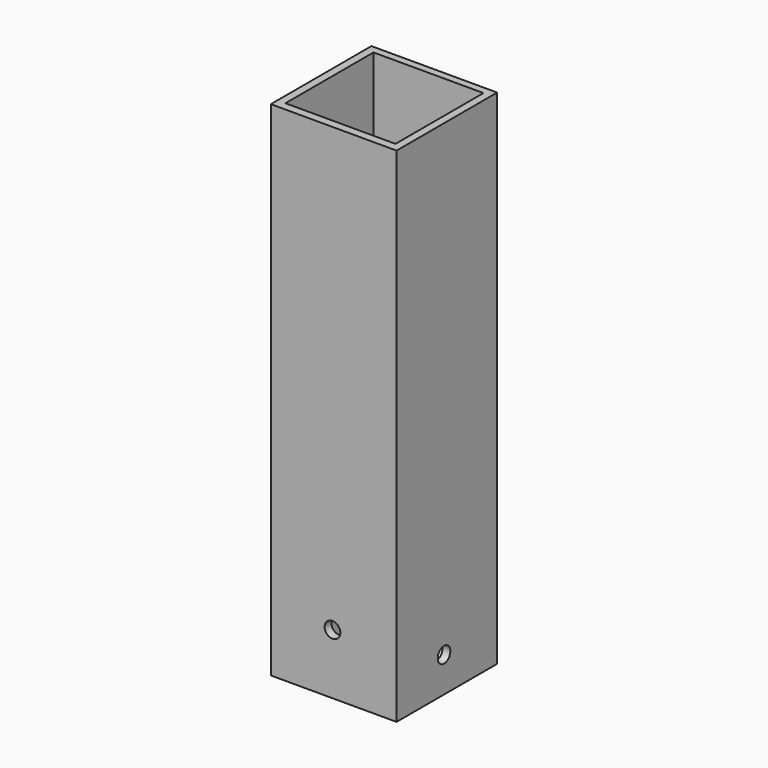
from build123d import *

# Parameters (mm, degrees)
F1_W     = 25.4
F1_H     = 25.4
F1_W_2   = 22.225
F1_H_2   = 22.225
F2_DEPTH = 101.6
F4_D     = 3.175
F6_D     = 3.175


with BuildPart() as f2:
    # F1 (on face) → F2 (new body)
    with BuildSketch(Plane.XY):
        with Locations((21.07109, -27.648601)):
            Rectangle(F1_W, F1_H)
        with Locations((21.086402, -27.549498)):
            Rectangle(F1_W_2, F1_H_2, mode=Mode.SUBTRACT)
    extrude(amount=F2_DEPTH)

    # F4 (through all)
    with Locations(Plane(origin=(0, -14.948601, 0), x_dir=(-1, 0, 0), z_dir=(0, 1, 0))):
        with Locations((-20.819843, 12.163988)):
            Hole(F4_D / 2)

    # F6 (through all)
    with Locations(Plane(origin=(8.37109, 0, 0), x_dir=(0, -1, 0), z_dir=(-1, 0, 0))):
        with Locations((28.359888, 7.072924)):
            Hole(F6_D / 2)


solid = f2.part
